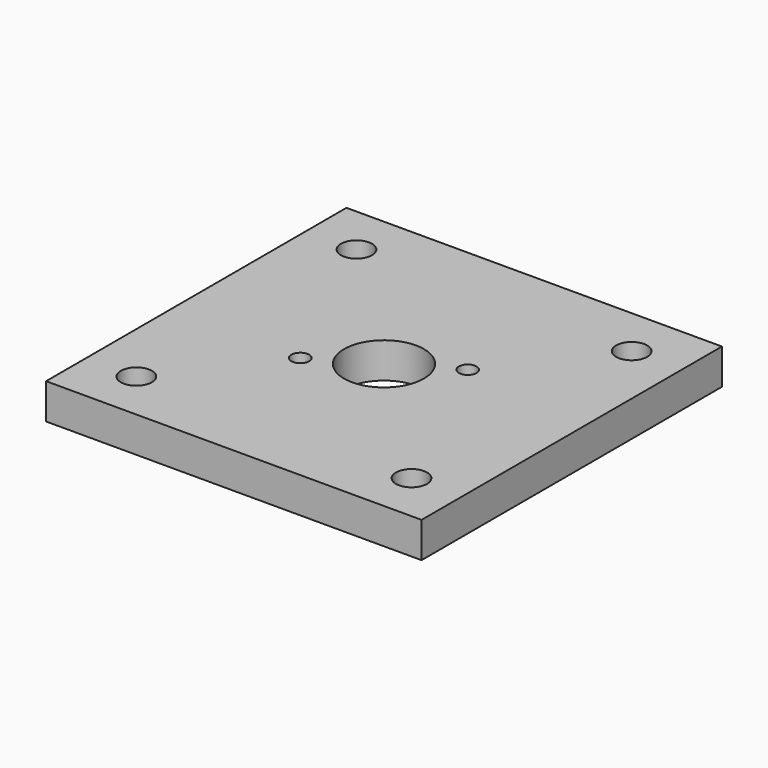
from build123d import *

# Parameters (mm, degrees)
F0_W     = 42.3
F0_H     = 42.3
F1_DEPTH = 4
F2_R     = 1.75
F2_R_2   = 4.5
F2_R_3   = 1
F3_DEPTH = 25


with BuildPart() as f1:
    # F0 (on Top) → F1 (new body)
    with BuildSketch(Plane.XY):
        with Locations((-1.048587, -0.730384)):
            Rectangle(F0_W, F0_H)
    extrude(amount=F1_DEPTH)

    # F2 (on face) → F3 (cut)
    with BuildSketch(Plane.XY.offset(4)):
        with Locations((-16.548587, -16.230384)):
            Circle(F2_R)
        with Locations((14.451413, -16.230384)):
            Circle(F2_R)
        with Locations((14.451413, 14.769616)):
            Circle(F2_R)
        with Locations((-16.548587, 14.769616)):
            Circle(F2_R)
        with Locations((-1.048587, -0.730384)):
            Circle(F2_R_2)
        with Locations((-7.500477, -4.455384)):
            Circle(F2_R_3)
        with Locations((5.403302, 2.994616)):
            Circle(F2_R_3)
    extrude(amount=-F3_DEPTH, mode=Mode.SUBTRACT)


solid = f1.part
